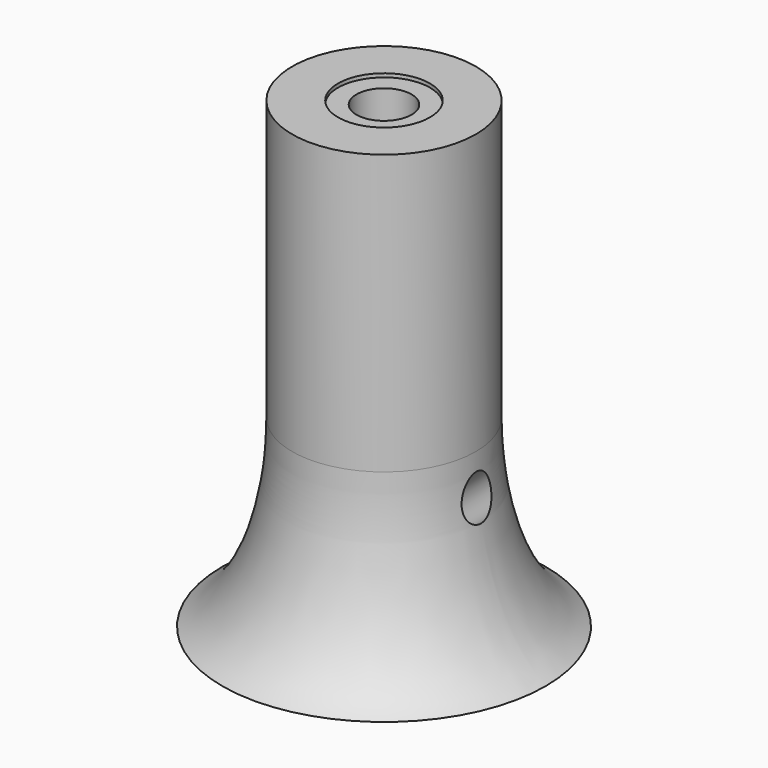
from build123d import *

# Parameters (mm, degrees)
F0_R          = 2.5
F0_R_2        = 1.5
F4_DEPTH      = 15
F4_DEPTH_BACK = 10
F6_R          = 2.55
F6_R_2        = 2.5
F7_DEPTH      = 0.25
F10_R         = 5
F10_R_2       = 1.5
F11_DEPTH     = 1.2
F14_R         = 1.5
F15_DEPTH     = 2
F3_R          = 1
F18_R         = 1
F20_DEPTH     = 14


with BuildPart() as f4:
    # F0 (on Top) → F4 (new body, two sides)
    with BuildSketch(Plane.XY) as f4_sk:
        Circle(F0_R)
        Circle(F0_R_2, mode=Mode.SUBTRACT)
    extrude(amount=F4_DEPTH)
    extrude(f4_sk.sketch, amount=-F4_DEPTH_BACK)

    # F6 (on face) → F7 (join)
    with BuildSketch(Plane.XY.offset(15)):
        Circle(F6_R)
        Circle(F6_R_2, mode=Mode.SUBTRACT)
    extrude(amount=-F7_DEPTH)

    # F10 (on Top) → F11 (join)
    with BuildSketch(Plane.XY):
        Circle(F10_R)
        Circle(F10_R_2, mode=Mode.SUBTRACT)
    extrude(amount=F11_DEPTH)

    # F12 (on Front) → F13 (revolve)
    with BuildSketch(Plane.XZ):
        with BuildLine():
            Line((5, 0), (2.5, 0))
            Line((2.5, 0), (2.5, -10))
            Line((2.5, -10), (8.7983487174, -10))
            add(Edge.make_bspline(
                [(5, 0), (5.0383992493, -4.4832699932), (6.3285781071, -8.5749803111), (8.7983487174, -10)],
                knots=[0, 0, 0, 0, 10.6970768427, 10.6970768427, 10.6970768427, 10.6970768427], degree=3))
        make_face()
    revolve(axis=Axis((0, 0, -7.6235234737), (0, 0, -1)))

    # F14 (on face) → F15 (join)
    with BuildSketch(Plane(origin=(0, 0, -10), x_dir=(1, 0, 0), z_dir=(0, 0, -1))):
        Circle(F14_R)
    extrude(amount=-F15_DEPTH)

    # F16: sweep along a path in F1
    with BuildLine(Plane.XZ) as f16_path:
        Line((0, -6.4742463656), (7.6604444312, -0.0463702687))
    # F3 (on line) → F16 (sweep, cut)
    with BuildSketch(Plane(origin=(4.4725004233, 0, 3.7528734556), x_dir=(0, 1, 0), z_dir=(0.7660444431, 0, 0.6427876097))):
        with Locations((0, -4.96)):
            Circle(F3_R)
    sweep(path=f16_path.line, mode=Mode.SUBTRACT)

    # F19: sweep along a path in F1
    with BuildLine(Plane.XZ) as f19_path:
        Line((0, -6.4742463656), (-7.6604444312, -0.0463702687))
    # F18 (on line) → F19 (sweep, cut)
    with BuildSketch(Plane(origin=(-4.4725004233, 0, 3.7528734556), x_dir=(0, -1, 0), z_dir=(-0.7660444431, 0, 0.6427876097))):
        with Locations((0, -4.9955216867)):
            Circle(F18_R)
    sweep(path=f19_path.line, mode=Mode.SUBTRACT)

    # F20 (add): a face of the model
    f20_faces = [f4.faces().sort_by_distance(p)[0] for p in [
        (-4.8585786438, 0, 1.2),
    ]]
    extrude(f20_faces, amount=F20_DEPTH)


solid = f4.part
